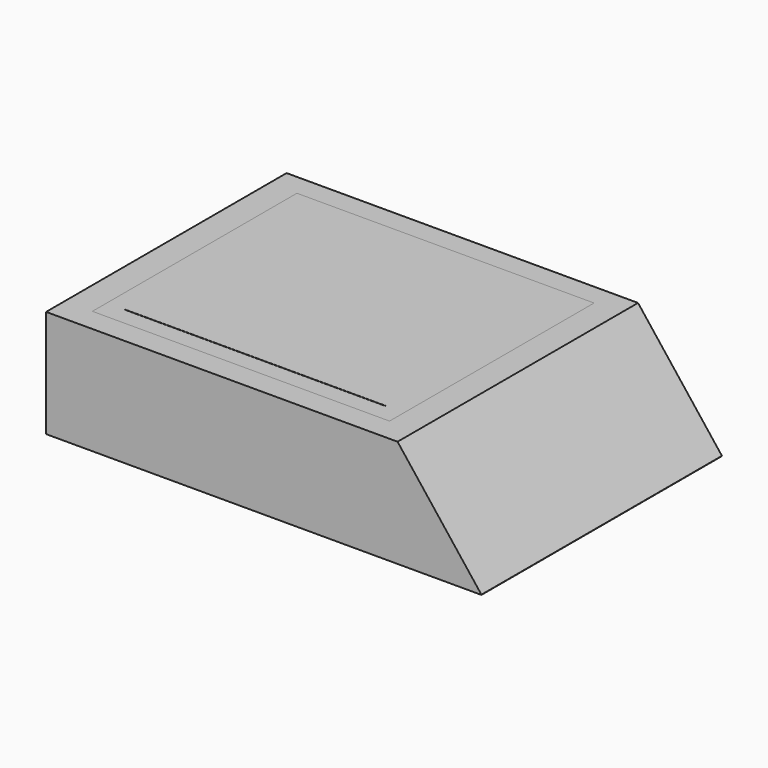
from build123d import *

# Parameters (mm, degrees)
F0_W      = 121.3761568069
F0_H      = 83.8073417544
F1_DEPTH  = 30
F3_DEPTH  = 250
F4_W      = 82.8440375626
F4_H      = 71.2844058871
F5_DEPTH  = 5
F6_W      = 82.8440375626
F6_H      = 71.2844058871
F6_W_2    = 72.8440375626
F6_H_2    = 61.2844058871
F7_DEPTH  = 10
F8_W      = 82.8440375626
F8_H      = 71.2844058871
F8_W_2    = 72.8440375626
F8_H_2    = 61.2844058871
F9_DEPTH  = 15
F10_W     = 75.9493652731
F10_H     = 63.1234776229
F11_DEPTH = 5


with BuildPart() as f1:
    # F0 (on Top) → F1 (new body)
    with BuildSketch(Plane.XY):
        Rectangle(F0_W, F0_H)
    extrude(amount=F1_DEPTH)

    # F2 (on Front) → F3 (cut, symmetric)
    with BuildSketch(Plane.XZ):
        Polygon((60.6880784035, 0), (60.7399642467, 0), (60.6880784035, 0.0664218806), align=None)
        Polygon((37.305287547, 30), (60.6880784035, 0.0664218806), (60.6880784035, 30), align=None)
    extrude(amount=F3_DEPTH, both=True, mode=Mode.SUBTRACT)

    # F4 (on face) → F5 (cut)
    with BuildSketch(Plane.XY.offset(30)):
        with Locations((-11.5596335381, 0.2408251166)):
            Rectangle(F4_W, F4_H)
    extrude(amount=-F5_DEPTH, mode=Mode.SUBTRACT)

    # F6 (on face) → F7 (cut)
    with BuildSketch(Plane.XY.offset(25)):
        with Locations((-11.5596335381, 0.2408251166)):
            Rectangle(F6_W, F6_H)
        with Locations((-11.5596335381, 0.2408251166)):
            Rectangle(F6_W_2, F6_H_2, mode=Mode.SUBTRACT)
    extrude(amount=-F7_DEPTH, mode=Mode.SUBTRACT)


with BuildPart() as f9:
    # F8 (on face) → F9 (new body, through all)
    with BuildSketch(Plane.XY.offset(15)):
        with Locations((-11.5596335381, 0.2408251166)):
            Rectangle(F8_W, F8_H)
        with Locations((-11.5596335381, 0.2408251166)):
            Rectangle(F8_W_2, F8_H_2, mode=Mode.SUBTRACT)
    extrude(amount=F9_DEPTH)

    # F10 (on face) → F11 (join, through all)
    with BuildSketch(Plane.XY.offset(30)):
        with Locations((-11.1807389185, 1.2565301731)):
            Rectangle(F10_W, F10_H)
    extrude(amount=-F11_DEPTH)


solid = Compound([f1.part, f9.part])
